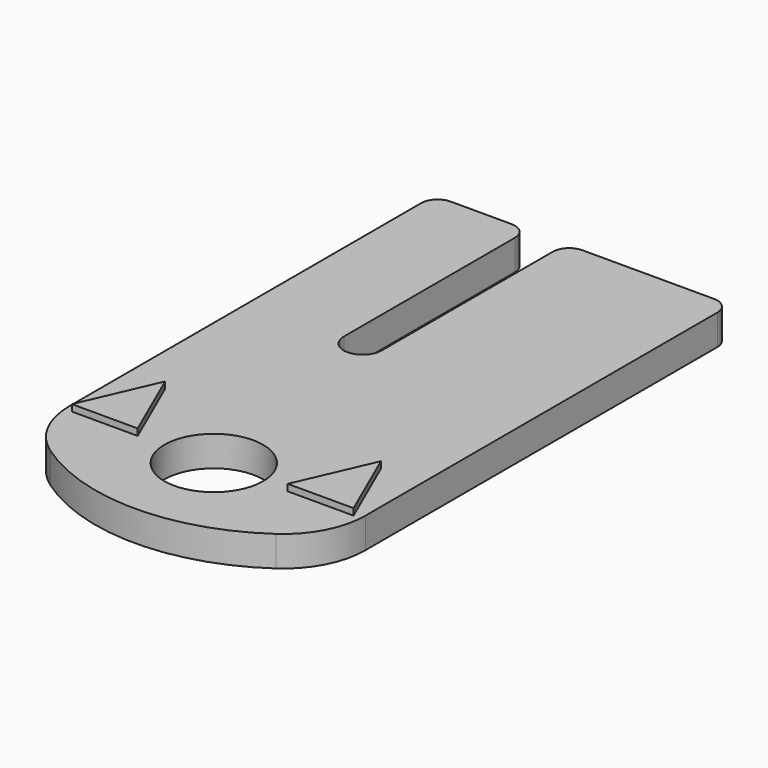
from build123d import *

# Parameters (mm, degrees)
F0_R     = 3
F1_DEPTH = 1.85
F3_DEPTH = 0.4


with BuildPart() as f1:
    # F0 (on Top) → F1 (new body)
    with BuildSketch(Plane.XY):
        with BuildLine():
            Line((4.7, 22), (1, 22))
            ThreePointArc((1, 22), (0.292893, 21.707107), (0, 21))
            Line((0, 21), (0, 1))
            Line((0, 1), (0, -5.744563))
            ThreePointArc((0, -5.744563), (0.567974, -8.059113), (2.142857, -9.847822))
            ThreePointArc((2.142857, -9.847822), (9, -12), (15.857143, -9.847822))
            ThreePointArc((15.857143, -9.847822), (17.432026, -8.059113), (18, -5.744563))
            Line((18, -5.744563), (18, 1))
            Line((18, 1), (18, 21))
            ThreePointArc((18, 21), (17.707107, 21.707107), (17, 22))
            Line((17, 22), (9, 22))
            ThreePointArc((9, 22), (8.292893, 21.707107), (8, 21))
            Line((8, 21), (8, 8))
            ThreePointArc((8, 8), (6.85, 6.85), (5.7, 8))
            Line((5.7, 8), (5.7, 21))
            ThreePointArc((5.7, 21), (5.407107, 21.707107), (4.7, 22))
        make_face()
        with Locations((9, -6)):
            Circle(F0_R, mode=Mode.SUBTRACT)
    extrude(amount=F1_DEPTH)

    # F2 (on face) → F3 (join)
    with BuildSketch(Plane.XY.offset(1.85)):
        Polygon((2.441246, -1.5), (0.441246, -6.082576), (4.441246, -6.082576), align=None)
        Polygon((15.558754, -1.5), (13.558754, -6.082576), (17.558754, -6.082576), align=None)
    extrude(amount=F3_DEPTH)


solid = f1.part
